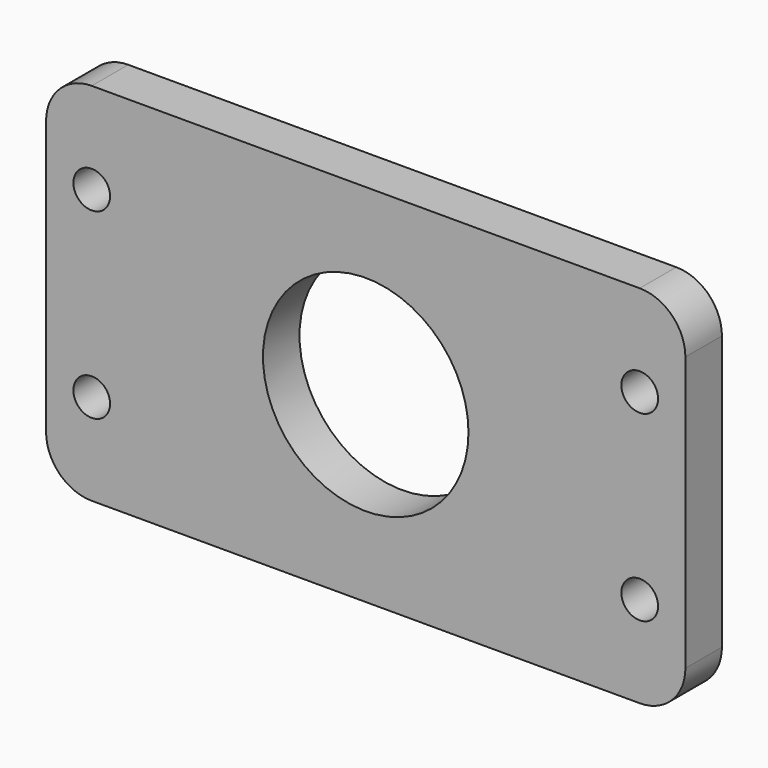
from build123d import *

# Parameters (mm, degrees)
F0_W     = 88.9
F0_H     = 50.8
F0_R     = 2.5527
F0_R_2   = 14.2875
F1_DEPTH = 6.35
F2_R     = 6.35


with BuildPart() as f1:
    # F0 (on Front) → F1 (new body)
    with BuildSketch(Plane.XZ):
        Rectangle(F0_W, F0_H)
        with Locations((-38.1, -12.7)):
            Circle(F0_R, mode=Mode.SUBTRACT)
        with Locations((38.1, -12.7)):
            Circle(F0_R, mode=Mode.SUBTRACT)
        Circle(F0_R_2, mode=Mode.SUBTRACT)
        with Locations((-38.1, 12.7)):
            Circle(F0_R, mode=Mode.SUBTRACT)
        with Locations((38.1, 12.7)):
            Circle(F0_R, mode=Mode.SUBTRACT)
    extrude(amount=F1_DEPTH)

    # F2
    f2_edges = [f1.edges().sort_by_distance(p)[0] for p in [
        (-44.45, -3.175, 25.4),
        (-44.45, -3.175, -25.4),
        (44.45, -3.175, -25.4),
        (44.45, -3.175, 25.4),
    ]]
    fillet(f2_edges, radius=F2_R)


solid = f1.part
